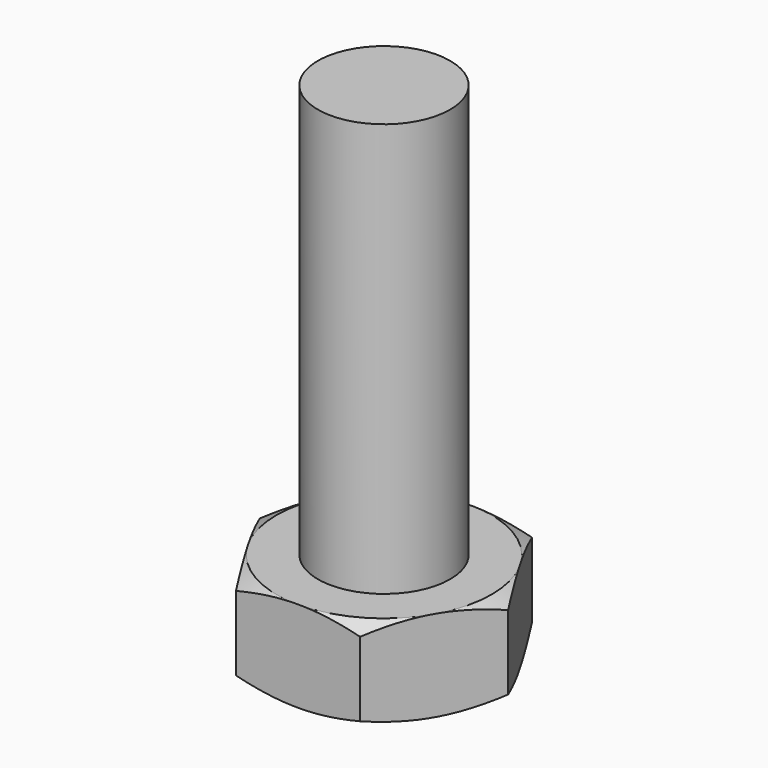
from build123d import *

# Parameters (mm, degrees)
PAD008_DEPTH = 5.5
SKETCH029_R  = 4
PAD009_DEPTH = 25


with BuildPart() as part:
    # Sketch028 → Pad008 (new body)
    with BuildSketch(Plane.XY):
        Polygon((7.5055534995, 0), (3.7527767497, 6.5), (-3.7527767497, 6.5), (-7.5055534995, 0), (-3.7527767497, -6.5), (3.7527767497, -6.5), align=None)
    extrude(amount=PAD008_DEPTH)

    # Sketch029 (on Face8 of Pad008) → Pad009 (join)
    with BuildSketch(Plane.XY.offset(5.5)):
        Circle(SKETCH029_R)
    extrude(amount=PAD009_DEPTH)

    # Sketch030 → Groove001 (revolve, cut)
    with BuildSketch(Plane.XZ):
        Polygon((4, 30.5), (3.5, 30.5), (4, 31), align=None)
        Polygon((7.5055534995, 5.5), (6.5055534995, 5.5), (7.5055534995, 5), align=None)
        Polygon((7.5055534995, 0), (6.5055534995, 0), (7.5055534995, 0.5), align=None)
    revolve(axis=Axis((0, 0, 0), (0, 0, 1)), mode=Mode.SUBTRACT)


solid = part.part
